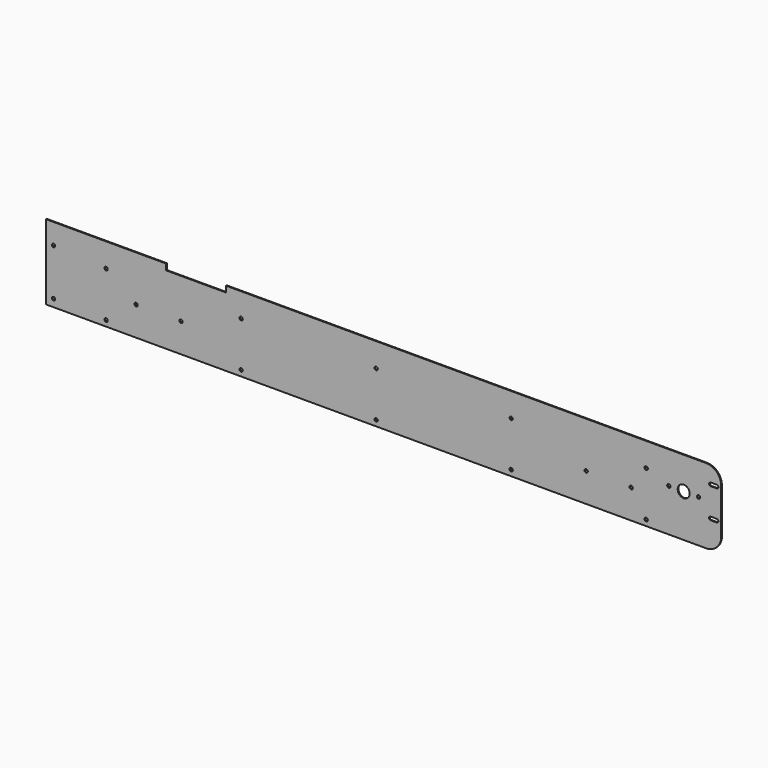
from build123d import *

# Parameters (mm, degrees)
F0_W      = 2250
F0_H      = 250
F1_DEPTH  = 1.5
F3_D      = 11
F3_DEPTH  = 18
F3_TIP    = 3.3047334047
F5_DEPTH  = 3.001
F6_R      = 20
F7_DEPTH  = 3.001
F9_D      = 11
F9_DEPTH  = 18
F9_TIP    = 3.3047334047
F10_R     = 50
F11_W     = 200
F11_H     = 20
F12_DEPTH = 3.001


with BuildPart() as f1:
    # F0 (on Front) → F1 (new body, symmetric)
    with BuildSketch(Plane.XZ):
        Rectangle(F0_W, F0_H)
    extrude(amount=F1_DEPTH, both=True)

    # F3
    with Locations(Plane.XZ.offset(1.5)):
        with Locations((-1100, 56.2), (-1100, -100), (-925, -105.7), (-925, 45.1), (675, -28), (825, -28), (875, -105.7), (875, 45.1), (-475, 45.1), (-475, -105.7), (-25, -105.7), (-25, 45.1), (425, 45.1), (425, -105.7), (-825, -28), (-675, -28)):
            Hole(F3_D / 2, depth=F3_DEPTH)
            with Locations((0, 0, -(F3_DEPTH + F3_TIP / 2))):  # 118° drill point
                Cone(0, F3_D / 2, F3_TIP, mode=Mode.SUBTRACT)

    # F4 (on face) → F5 (cut, through all)
    with BuildSketch(Plane.XZ.offset(1.5)):
        with BuildLine():
            ThreePointArc((1110, 62), (1115.5, 67.5), (1110, 73))
            Line((1110, 73), (1090, 73))
            ThreePointArc((1090, 73), (1084.5, 67.5), (1090, 62))
            Line((1090, 62), (1110, 62))
        make_face()
        with BuildLine():
            ThreePointArc((1110, -38), (1115.5, -32.5), (1110, -27))
            Line((1110, -27), (1090, -27))
            ThreePointArc((1090, -27), (1084.5, -32.5), (1090, -38))
            Line((1090, -38), (1110, -38))
        make_face()
    extrude(amount=-F5_DEPTH, mode=Mode.SUBTRACT)

    # F6 (on face) → F7 (cut, through all)
    with BuildSketch(Plane.XZ.offset(1.5)):
        with Locations((1000, 17.5)):
            Circle(F6_R)
    extrude(amount=-F7_DEPTH, mode=Mode.SUBTRACT)

    # F9
    with Locations(Plane.XZ.offset(1.5)):
        with Locations((950.5, 17.5), (1049.5, 17.5)):
            Hole(F9_D / 2, depth=F9_DEPTH)
            with Locations((0, 0, -(F9_DEPTH + F9_TIP / 2))):  # 118° drill point
                Cone(0, F9_D / 2, F9_TIP, mode=Mode.SUBTRACT)

    # F10
    f10_edges = [f1.edges().sort_by_distance(p)[0] for p in [
        (1125, 0, 125),
        (1125, 0, -125),
    ]]
    fillet(f10_edges, radius=F10_R)

    # F11 (on face) → F12 (cut, through all)
    with BuildSketch(Plane.XZ.offset(1.5)):
        with Locations((-625, 115)):
            Rectangle(F11_W, F11_H)
    extrude(amount=-F12_DEPTH, mode=Mode.SUBTRACT)


solid = f1.part
